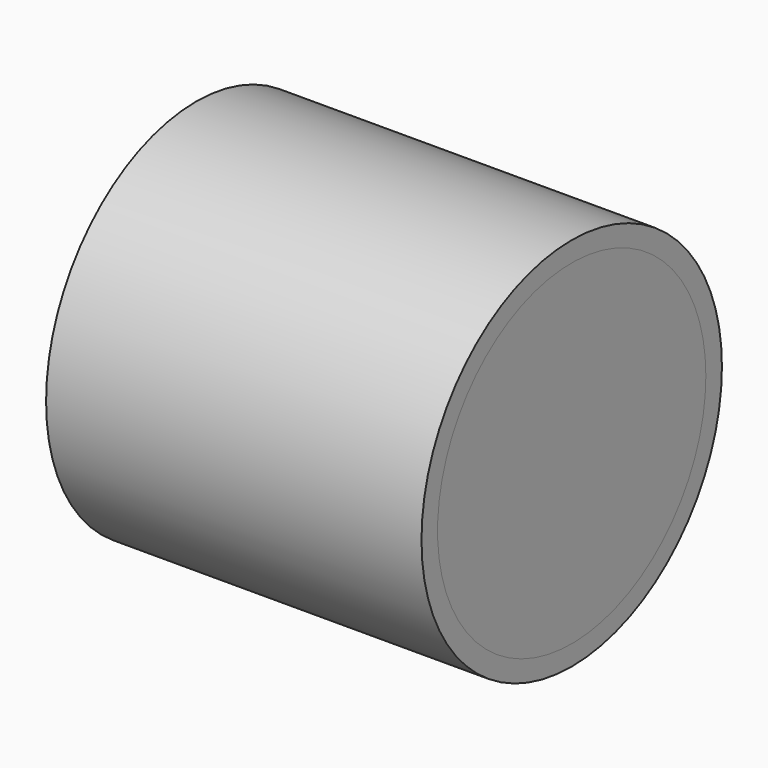
from build123d import *

# Parameters (mm, degrees)
F0_R     = 14.024991
F0_R_2   = 12.524994
F1_DEPTH = 28.0416
F2_R     = 12.524994
F3_DEPTH = 2.999994


with BuildPart() as f1:
    # F0 (on Right) → F1 (new body)
    with BuildSketch(Plane.YZ):
        Circle(F0_R)
        Circle(F0_R_2, mode=Mode.SUBTRACT)
    extrude(amount=F1_DEPTH)


with BuildPart() as f3:
    # F2 (on face) → F3 (new body)
    with BuildSketch(Plane.YZ.offset(28.0416)):
        Circle(F2_R)
    extrude(amount=-F3_DEPTH)


solid = Compound([f1.part, f3.part])
